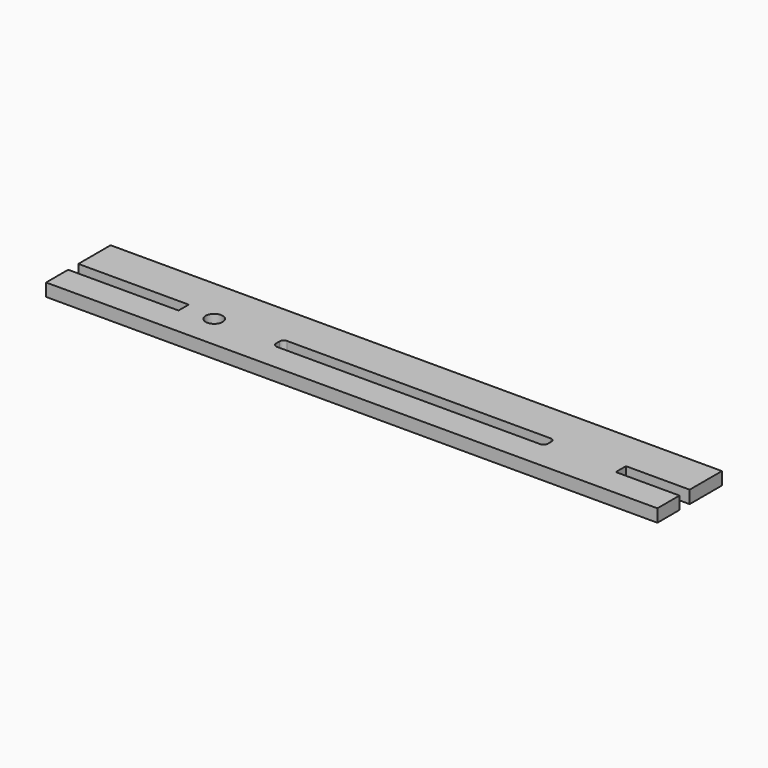
from build123d import *

# Parameters (mm, degrees)
F0_R     = 10
F1_DEPTH = 15


with BuildPart() as f1:
    # F0 (on Top) → F1 (new body)
    with BuildSketch(Plane.XY):
        Polygon((-360, 32.5), (-360, 0), (360, 0), (360, 32.5), (285, 32.5), (285, 47.5), (360, 47.5), (360, 95), (-360, 95), (-360, 47.5), (-230, 47.5), (-230, 32.5), align=None)
        with Locations((-194, 40)):
            Circle(F0_R, mode=Mode.SUBTRACT)
        with BuildLine():
            ThreePointArc((-119.041678, 42.5), (-117.577212, 46.035534), (-114.041678, 47.5))
            Line((-114.041678, 47.5), (195.958322, 47.5))
            ThreePointArc((195.958322, 47.5), (199.493856, 46.035534), (200.958322, 42.5))
            Line((200.958322, 42.5), (200.958322, 37.5))
            ThreePointArc((200.958322, 37.5), (199.493856, 33.964466), (195.958322, 32.5))
            Line((195.958322, 32.5), (-114.041678, 32.5))
            ThreePointArc((-114.041678, 32.5), (-117.577212, 33.964466), (-119.041678, 37.5))
            Line((-119.041678, 37.5), (-119.041678, 42.5))
        make_face(mode=Mode.SUBTRACT)
    extrude(amount=F1_DEPTH)


solid = f1.part
